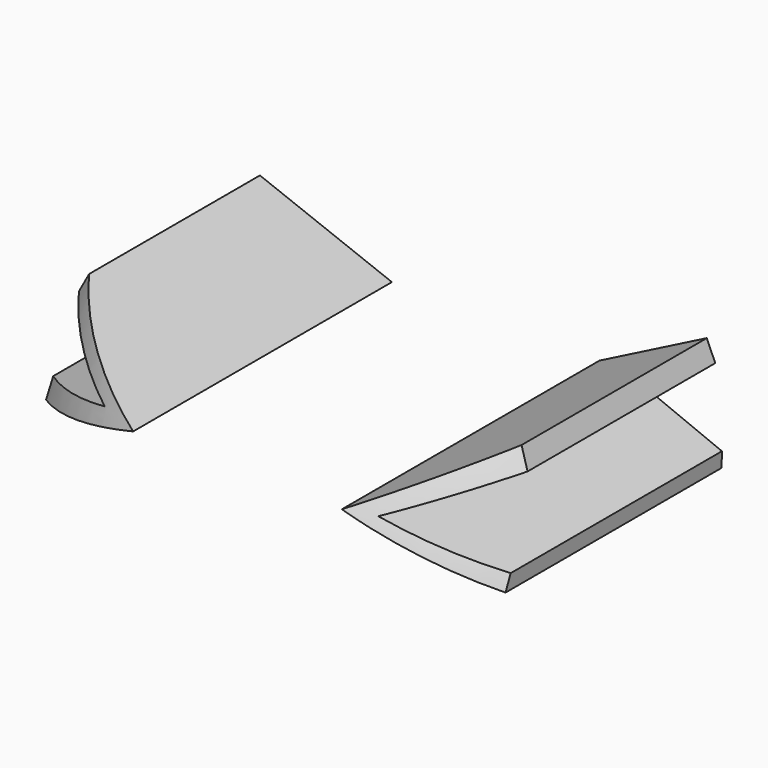
from build123d import *

# Parameters (mm, degrees)
EXTRUDE006_DEPTH = 100


with BuildPart() as extrude006:
    # Sketch054 → Extrude006 (new body)
    with BuildSketch(Plane.XZ):
        Polygon((-20.197653, 115.267121), (-8.740475, 110.839136), (-21.307601, 106.637034), (-21.058408, 108.328475), (-12.41629, 110.93611), (-21.119285, 113.624325), align=None)
        Polygon((18.599507, 115.45201), (9.277163, 110.699436), (19.879051, 105.94687), (19.908392, 107.232778), (11.73356, 110.573557), (11.682224, 110.573557), (19.327358, 113.772605), align=None)
    extrude(amount=EXTRUDE006_DEPTH)


with BuildPart() as common005:
    # Sketch045 → Revolution002 (revolve)
    with BuildSketch(Plane.XZ):
        with BuildLine():
            Line((0, 0), (0, 135.563389))
            ThreePointArc((23.86226, 121.281178), (13.904936, 131.720055), (0, 135.563389))
            ThreePointArc((32.577943, 87.696618), (30.229669, 105.01041), (23.86226, 121.281178))
            ThreePointArc((22.101567, 52.101534), (30.047255, 69.102202), (32.577943, 87.696618))
            ThreePointArc((22.101567, 52.101534), (13.488015, 26.476163), (18.952965, 0))
            Line((0, 0), (18.952965, 0))
        make_face()
    revolve(axis=Axis((0, 0, 0), (0, 0, 1)))


with BuildPart() as common005_1:
    # Clone008 placement: moved
    add(common005.part.moved(Location((0, -1, 0))))

    # Common005: intersect Extrude006
    add(extrude006.part, mode=Mode.INTERSECT)


solid = common005_1.part
